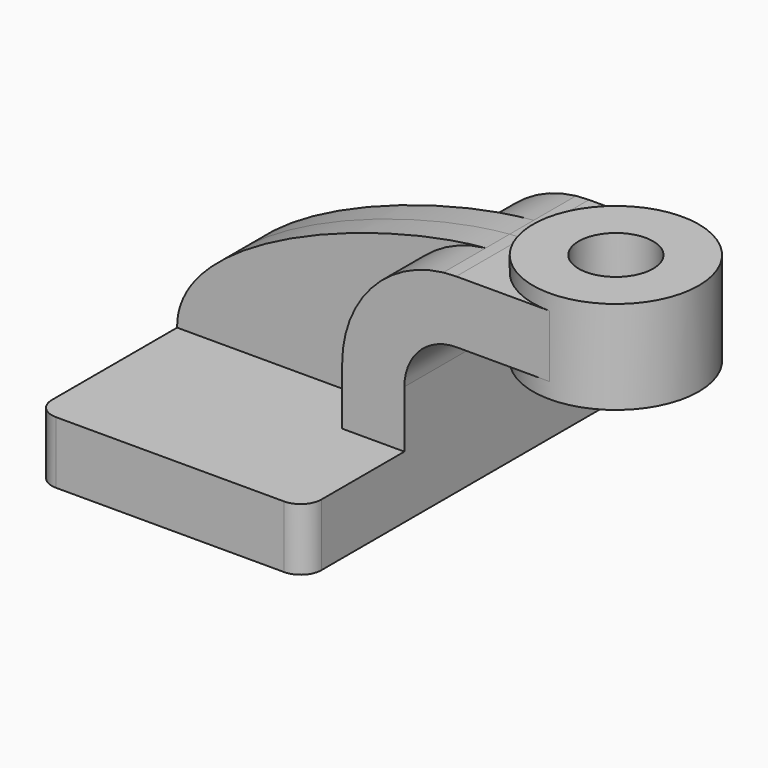
from build123d import *

# Parameters (mm, degrees)
F1_DEPTH = 63.5
F0_W     = 25.4
F0_H     = 19.05
F2_DEPTH = 25.4
F3_DEPTH = 9.2075
F5_R     = 6.35
F6_R     = 11.3954507036
F7_DEPTH = 76.201


with BuildPart() as f1:
    # F0 (on Front) → F1 (new body, symmetric)
    with BuildSketch(Plane.XZ):
        Polygon((-41.275, 9.525), (-41.275, -9.525), (41.275, -9.525), (41.275, 9.525), (22.225, 9.525), align=None)
    extrude(amount=F1_DEPTH, both=True)

    # F0 (on Front) → F2 (join, symmetric)
    with BuildSketch(Plane.XZ):
        with BuildLine():
            Line((22.225, 9.525), (41.275, 9.525))
            Line((41.275, 9.525), (41.275, 27.0002))
            ThreePointArc((41.275, 27.0002), (45.9246798487, 38.2255201513), (57.15, 42.8752))
            Line((57.15, 42.8752), (60.325, 42.8752))
            Line((60.325, 42.8752), (60.325, 61.9252))
            Line((60.325, 61.9252), (57.15, 61.9252))
            add(Edge.make_bspline(
                [(53.2009990256, 61.7012232746), (54.5754497046, 61.8116519501), (55.8942153415, 61.886670259), (57.15, 61.9252)],
                knots=[106.938445779, 106.938445779, 106.938445779, 106.938445779, 111.5045361635, 111.5045361635, 111.5045361635, 111.5045361635], degree=3))
            ThreePointArc((53.2009990256, 61.7012232746), (31.0954947847, 50.2578521383), (22.225, 27.0002))
            Line((22.225, 27.0002), (22.225, 9.525))
        make_face()
        with Locations((73.025, 52.4002)):
            Rectangle(F0_W, F0_H)
    extrude(amount=F2_DEPTH, both=True)

    # F0 (on Front) → F3 (join, symmetric)
    with BuildSketch(Plane.XZ):
        with BuildLine():
            add(Edge.make_bspline(
                [(-41.275, 9.525), (-41.7220303949, 37.1060348211), (21.011180815, 59.1149689658), (53.2009990256, 61.7012232746)],
                knots=[0, 0, 0, 0, 106.938445779, 106.938445779, 106.938445779, 106.938445779], degree=3))
            Line((-41.275, 9.525), (22.225, 9.525))
            Line((22.225, 9.525), (22.225, 27.0002))
            ThreePointArc((22.225, 27.0002), (31.0954947847, 50.2578521383), (53.2009990256, 61.7012232746))
        make_face()
    extrude(amount=F3_DEPTH, both=True)

    # F0 (on Front) → F4 (revolve)
    with BuildSketch(Plane.XZ):
        Polygon((85.725, 66.675), (85.725, 61.9252), (85.725, 42.8752), (85.725, 38.1), (111.125, 38.1), (111.125, 66.675), align=None)
    revolve(axis=Axis((85.725, 0, 52.3875), (0, 0, 1)))

    # F5
    f5_edges = [f1.edges().sort_by_distance(p)[0] for p in [
        (41.275, -63.5, 0),
        (-41.275, -63.5, 0),
        (-41.275, 63.5, 0),
        (41.275, 63.5, 0),
    ]]
    fillet(f5_edges, radius=F5_R)

    # F6 (on face) → F7 (cut, through all)
    with BuildSketch(Plane.XY.offset(66.675)):
        with Locations((85.725, 0)):
            Circle(F6_R)
    extrude(amount=-F7_DEPTH, mode=Mode.SUBTRACT)


solid = f1.part
